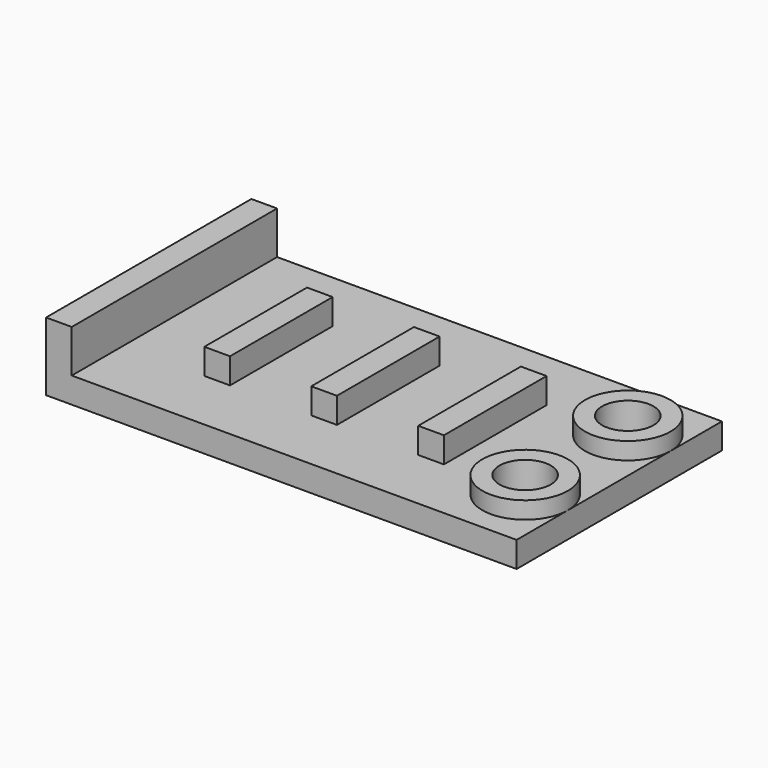
from build123d import *

# Parameters (mm, degrees)
F0_R     = 5
F0_W     = 3
F0_H     = 15
F0_R_2   = 3
F1_DEPTH = 3
F0_H_2   = 30
F2_DEPTH = 8
F3_DEPTH = 6
F4_DEPTH = 5


with BuildPart() as f1:
    # F0 (on Top) → F1 (new body)
    with BuildSketch(Plane.XY):
        Polygon((52, 30), (0, 30), (0, 0), (52, 0), (52, 7.5), (52, 22.5), align=None)
        with Locations((47, 7.5)):
            Circle(F0_R, mode=Mode.SUBTRACT)
        with Locations((11, 15)):
            Rectangle(F0_W, F0_H, mode=Mode.SUBTRACT)
        with Locations((23.5, 15)):
            Rectangle(F0_W, F0_H, mode=Mode.SUBTRACT)
        with Locations((36, 15)):
            Rectangle(F0_W, F0_H, mode=Mode.SUBTRACT)
        with Locations((47, 22.5)):
            Circle(F0_R, mode=Mode.SUBTRACT)
        with Locations((47, 7.5)):
            Circle(F0_R)
        with Locations((47, 7.5)):
            Circle(F0_R_2, mode=Mode.SUBTRACT)
        with Locations((47, 22.5)):
            Circle(F0_R)
        with Locations((47, 22.5)):
            Circle(F0_R_2, mode=Mode.SUBTRACT)
    extrude(amount=F1_DEPTH)

    # F0 (on Top) → F2 (join, through all)
    with BuildSketch(Plane.XY):
        with Locations((-1.5, 15)):
            Rectangle(F0_W, F0_H_2)
    extrude(amount=F2_DEPTH)

    # F0 (on Top) → F3 (join, through all)
    with BuildSketch(Plane.XY):
        with Locations((11, 15)):
            Rectangle(F0_W, F0_H)
        with Locations((23.5, 15)):
            Rectangle(F0_W, F0_H)
        with Locations((36, 15)):
            Rectangle(F0_W, F0_H)
    extrude(amount=F3_DEPTH)

    # F0 (on Top) → F4 (join, through all)
    with BuildSketch(Plane.XY):
        with Locations((47, 22.5)):
            Circle(F0_R)
        with Locations((47, 22.5)):
            Circle(F0_R_2, mode=Mode.SUBTRACT)
        with Locations((47, 7.5)):
            Circle(F0_R)
        with Locations((47, 7.5)):
            Circle(F0_R_2, mode=Mode.SUBTRACT)
    extrude(amount=F4_DEPTH)


solid = f1.part
